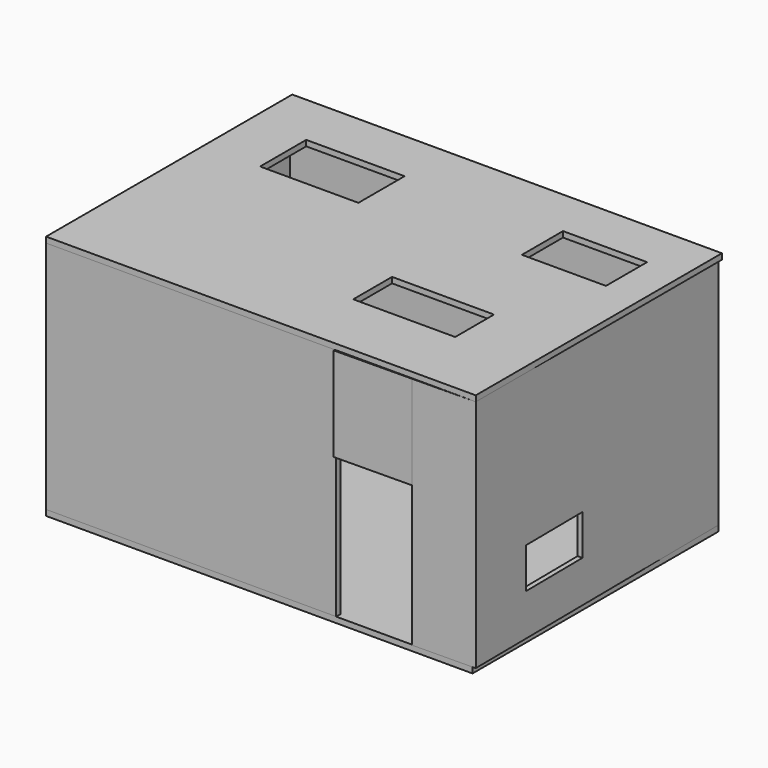
from build123d import *

# Parameters (mm, degrees)
F1_DEPTH  = 4100
F2_W      = 7512.849808
F2_H      = 5379.839659
F3_DEPTH  = 100
F4_W      = 1783.112168
F4_H      = 849.274814
F4_W_2    = 1719.493687
F4_H_2    = 1009.030878
F4_W_3    = 1469.926596
F4_H_3    = 898.803472
F5_DEPTH  = 2540
F6_W      = 7456.451416
F6_H      = 5379.839659
F7_DEPTH  = 100
F8_W      = 1356.969288
F8_H      = 1639.961815
F9_DEPTH  = 100
F10_W     = 1249.482632
F10_H     = 706.453919
F11_DEPTH = 100
F12_W     = 1127.990008
F12_H     = 617.126555
F12_W_2   = 1166.406885
F12_H_2   = 787.229716
F13_DEPTH = 200


with BuildPart() as f1:
    # F0 (on Top) → F1 (new body)
    with BuildSketch(Plane.XY):
        Polygon((2012.951255, -2759.714842), (2012.951255, -2660.954189), (-2982.583523, -2660.954189), (-2982.583523, -764.968991), (-2982.583523, 2477.460384), (4314.134364, 2477.460384), (4367.728233, -2634.855986), (3345.912346, -2660.954189), (3345.912346, -2771.325837), (4453.484535, -2759.714842), (4397.086143, 2620.124817), (-3059.365273, 2620.124817), (-3059.365273, -2759.714842), align=None)
    extrude(amount=F1_DEPTH)

    # F2 (on face) → F3 (join)
    with BuildSketch(Plane.XY.offset(4100)):
        with Locations((697.059631, -69.795012)):
            Rectangle(F2_W, F2_H)
    extrude(amount=F3_DEPTH)

    # F4 (on face) → F5 (cut)
    with BuildSketch(Plane.XY.offset(4200)):
        with Locations((2264.989078, -1163.662463)):
            Rectangle(F4_W, F4_H)
        with Locations((-1212.931722, 1188.263625)):
            Rectangle(F4_W_2, F4_H_2)
        with Locations((3084.902406, 1326.908469)):
            Rectangle(F4_W_3, F4_H_3)
    extrude(amount=-F5_DEPTH, mode=Mode.SUBTRACT)

    # F6 (on face) → F7 (join)
    with BuildSketch(Plane(origin=(0, 0, 0), x_dir=(1, 0, 0), z_dir=(0, 0, -1))):
        with Locations((668.860435, 69.795012)):
            Rectangle(F6_W, F6_H)
    extrude(amount=F7_DEPTH)

    # F10 (on face) → F11 (cut)
    with BuildSketch(Plane(origin=(4424.067457, 46.378759, 0), x_dir=(-0.010483, 0.999945, 0), z_dir=(0.999945, 0.010483, 0))):
        with Locations((-1068.583846, 1082.911908)):
            Rectangle(F10_W, F10_H)
    extrude(amount=-F11_DEPTH, mode=Mode.SUBTRACT)

    # F12 (on face) → F13 (cut)
    with BuildSketch(Plane(origin=(0, 2620.124817, 0), x_dir=(-1, 0, 0), z_dir=(0, 1, 0))):
        with Locations((-3255.424142, 755.900458)):
            Rectangle(F12_W, F12_H)
        with Locations((343.73974, 907.864958)):
            Rectangle(F12_W_2, F12_H_2)
    extrude(amount=-F13_DEPTH, mode=Mode.SUBTRACT)


with BuildPart() as f9:
    # F8 (on face) → F9 (new body)
    with BuildSketch(Plane(origin=(29.417079, -2806.093601, 0), x_dir=(0.999945, 0.010483, 0), z_dir=(0.010483, -0.999945, 0))):
        with Locations((2638.192858, 3280.019092)):
            Rectangle(F8_W, F8_H)
    extrude(amount=-F9_DEPTH)


solid = Compound([f1.part, f9.part])
